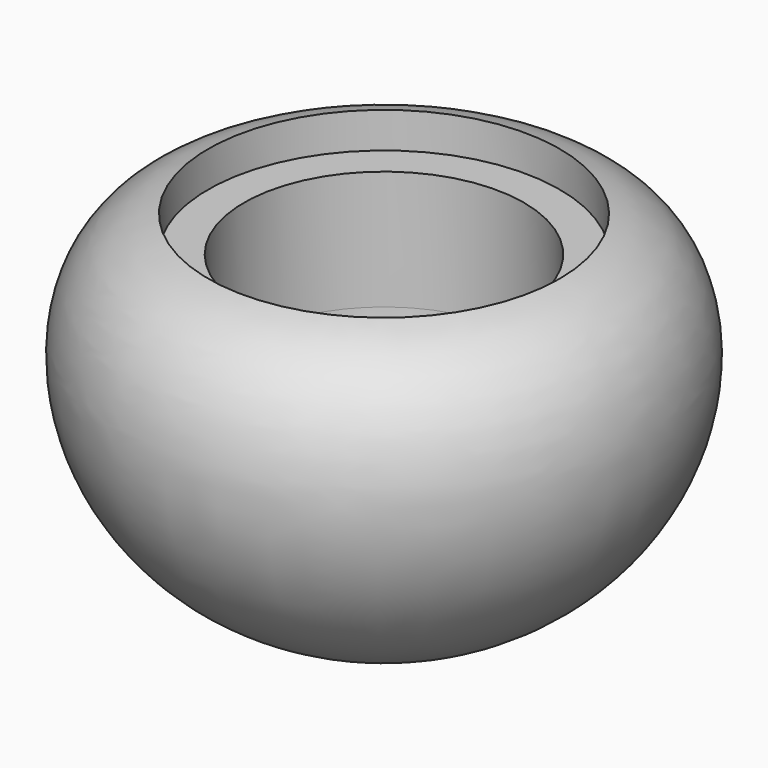
from build123d import *

# Parameters (mm, degrees)
F2_R     = 2
F3_DEPTH = 24.3123587823


with BuildPart() as f1:
    # F0 (on Front) → F1 (revolve)
    with BuildSketch(Plane.XZ):
        with BuildLine():
            Line((29.5, 29.6886413177), (23.5, 29.6886413177))
            Line((23.5, 29.6886413177), (23.5, 9.6886413177))
            ThreePointArc((23.5, 9.6886413177), (19.1066017178, -0.9179604001), (8.5, -5.3113586823))
            Line((8.5, -5.3113586823), (0, -5.3113586823))
            Line((0, -5.3113586823), (0, -24.3113586823))
            add(Edge.make_bspline(
                [(29.5, 35.6886413177), (43, 32.6886413177), (51.0440050218, 0.5273848631), (22.6898039743, -24.3113586823), (0, -24.3113586823)],
                knots=[0, 0, 0, 0, 0.4420000814, 1, 1, 1, 1], degree=3))
            Line((29.5, 35.6886413177), (29.5, 29.6886413177))
        make_face()
    revolve(axis=Axis((0, 0, 8.553719148), (0, 0, -1)))

    # F2 (on Top) → F3 (cut, through all)
    with BuildSketch(Plane.XY):
        Circle(F2_R)
    extrude(amount=-F3_DEPTH, mode=Mode.SUBTRACT)


solid = f1.part
